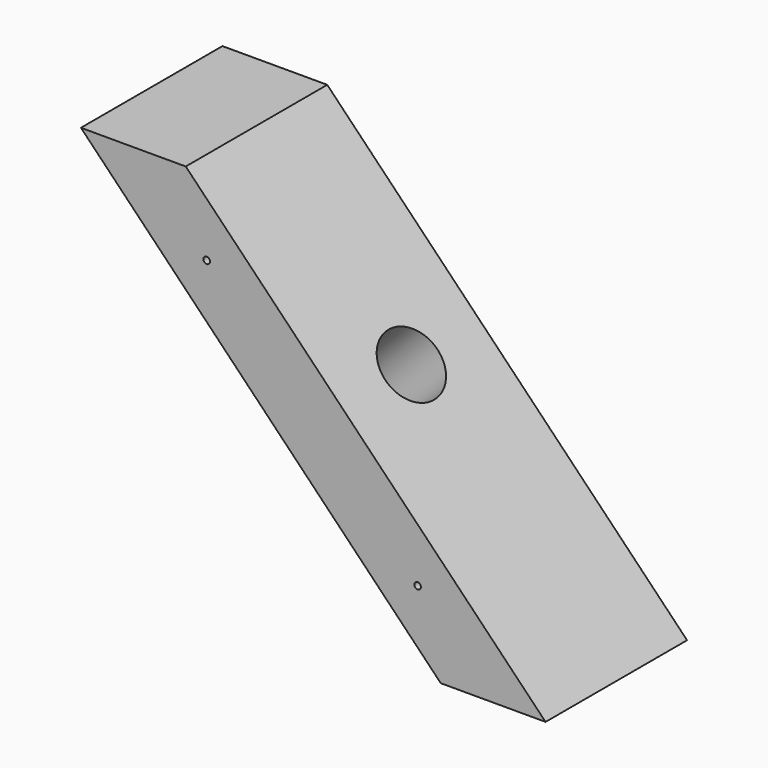
from build123d import *

# Parameters (mm, degrees)
F1_DEPTH = 85.725
F3_DEPTH = 50.8
F4_R     = 1.5875
F5_DEPTH = 127


with BuildPart() as f1:
    # F0 (on Front) → F1 (new body)
    with BuildSketch(Plane.XZ):
        Polygon((-67.6071290719, 80.2582807616), (-118.4071290719, 80.2582807616), (55.9836195711, -100.0221879884), (106.7836195711, -100.0221879884), align=None)
    extrude(amount=F1_DEPTH)

    # F2 (on face) → F3 (cut)
    with BuildSketch(Plane(origin=(5.1810656307, 0, 5.0118014468), x_dir=(0, 1, 0), z_dir=(0.71875, 0, 0.6952686082))):
        with BuildLine():
            Line((-58.7375, -3.2592461708), (-26.9875, -3.2592461708))
            ThreePointArc((-26.9875, -3.2592461708), (-42.8625, 12.6157538292), (-58.7375, -3.2592461708))
        make_face()
        with BuildLine():
            ThreePointArc((-58.7375, -3.2592461708), (-42.8625, -19.1342461708), (-26.9875, -3.2592461708))
            Line((-26.9875, -3.2592461708), (-58.7375, -3.2592461708))
        make_face()
    extrude(amount=-F3_DEPTH, mode=Mode.SUBTRACT)

    # F4 (on face) → F5 (cut)
    with BuildSketch(Plane(origin=(0, 0, 0), x_dir=(-1, 0, 0), z_dir=(0, 1, 0))):
        with Locations((-44.76928715, -62.1007793102)):
            Circle(F4_R)
        with Locations((57.455530428, 43.4951331483)):
            Circle(F4_R)
    extrude(amount=-F5_DEPTH, mode=Mode.SUBTRACT)


solid = f1.part
